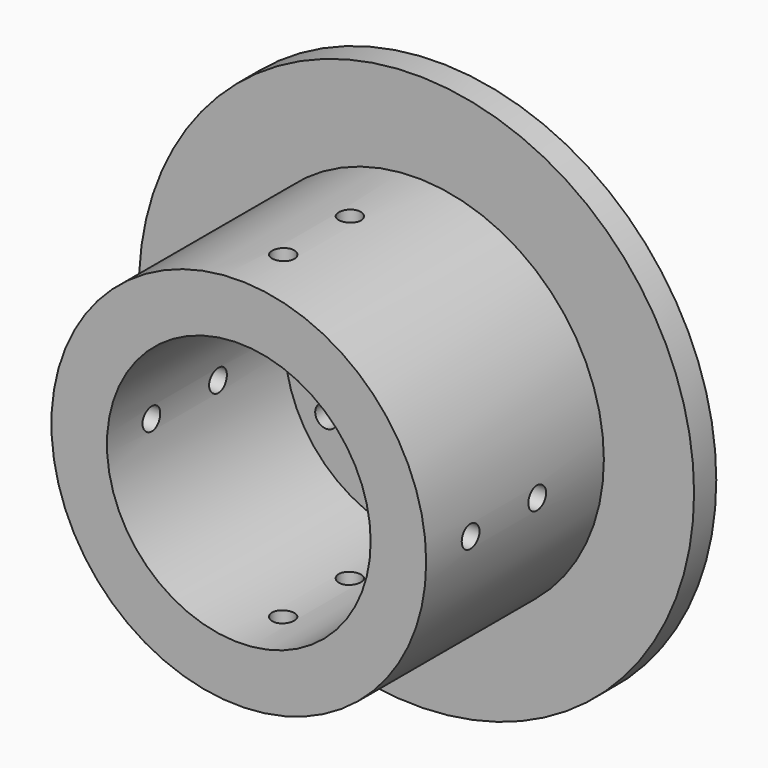
from build123d import *

# Parameters (mm, degrees)
F0_R      = 63.5
F0_R_2    = 2.54
F0_R_3    = 14.2875
F1_DEPTH  = 6.35
F2_R      = 42.8625
F2_R_2    = 30.1625
F3_DEPTH  = 50.8
F5_R      = 2.54
F6_DEPTH  = 101.6
F8_R      = 2.54
F9_DEPTH  = 101.6
F10_R     = 2.5527
F11_DEPTH = 12.7


with BuildPart() as f1:
    # F0 (on Front) → F1 (new body)
    with BuildSketch(Plane.XZ):
        Circle(F0_R)
        with Locations((-20.6222299276, -11.90625)):
            Circle(F0_R_2, mode=Mode.SUBTRACT)
        with Locations((0, -23.8125)):
            Circle(F0_R_2, mode=Mode.SUBTRACT)
        with Locations((20.6222299276, -11.90625)):
            Circle(F0_R_2, mode=Mode.SUBTRACT)
        with Locations((-20.6222299276, 11.90625)):
            Circle(F0_R_2, mode=Mode.SUBTRACT)
        Circle(F0_R_3, mode=Mode.SUBTRACT)
        with Locations((20.6222299276, 11.90625)):
            Circle(F0_R_2, mode=Mode.SUBTRACT)
        with Locations((0, 23.8125)):
            Circle(F0_R_2, mode=Mode.SUBTRACT)
    extrude(amount=F1_DEPTH)

    # F10 (on face) → F11 (cut)
    with BuildSketch(Plane(origin=(0, 0, 0), x_dir=(-1, 0, 0), z_dir=(0, 1, 0))):
        with Locations((18.25625, 31.6207525557)):
            Circle(F10_R)
        with Locations((-18.25625, 31.6207525557)):
            Circle(F10_R)
        with Locations((-36.5125, 0)):
            Circle(F10_R)
        with Locations((-18.25625, -31.6207525557)):
            Circle(F10_R)
        with Locations((18.25625, -31.6207525557)):
            Circle(F10_R)
        with Locations((36.5125, 0)):
            Circle(F10_R)
    extrude(amount=-F11_DEPTH, mode=Mode.SUBTRACT)


with BuildPart() as f3:
    # F2 (on face) → F3 (new body)
    with BuildSketch(Plane.XZ.offset(6.35)):
        Circle(F2_R)
        Circle(F2_R_2, mode=Mode.SUBTRACT)
    extrude(amount=F3_DEPTH)

    # F5 (on offset) → F6 (cut)
    with BuildSketch(Plane.YZ.offset(45.212)):
        with Locations((-25.4, 0)):
            Circle(F5_R)
        with Locations((-44.45, 0)):
            Circle(F5_R)
    extrude(amount=-F6_DEPTH, mode=Mode.SUBTRACT)

    # F8 (on offset) → F9 (cut)
    with BuildSketch(Plane.XY.offset(44.196)):
        with Locations((0, -25.4)):
            Circle(F8_R)
        with Locations((0, -44.45)):
            Circle(F8_R)
    extrude(amount=-F9_DEPTH, mode=Mode.SUBTRACT)


solid = Compound([f1.part, f3.part])
